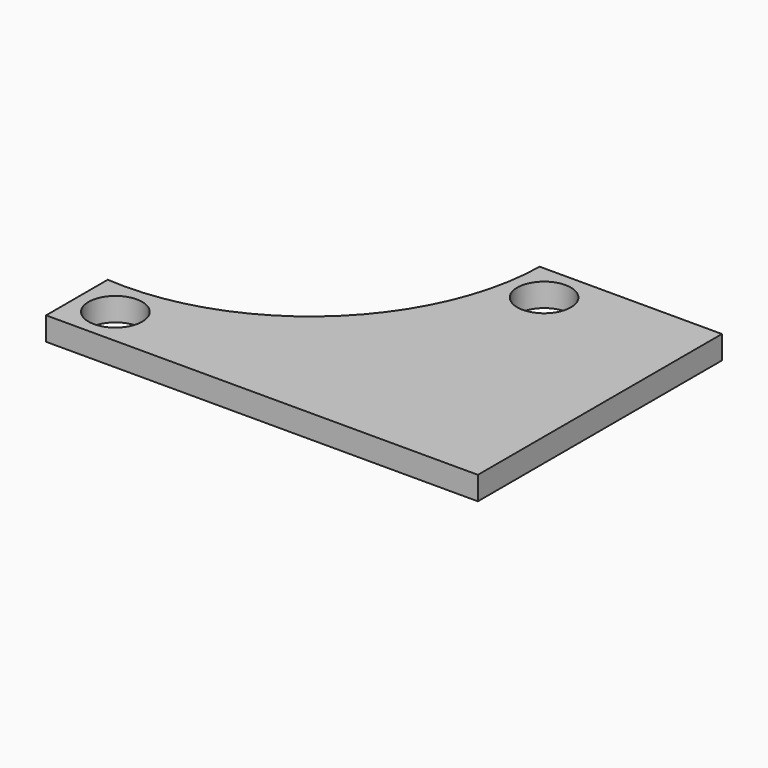
from build123d import *

# Parameters (mm, degrees)
F0_R     = 2.921
F1_DEPTH = 1.27


with BuildPart() as f1:
    # F0 (on Top) → F1 (new body, symmetric)
    with BuildSketch(Plane.XY):
        with BuildLine():
            Line((16.008551, -13.481906), (16.008551, 19.728972))
            Line((16.008551, 19.728972), (-3.832283, 19.728972))
            ThreePointArc((-3.832283, 19.728972), (-12.068809, 1.461038), (-31.006849, -5.089415))
            Line((-31.006849, -5.089415), (-31.006849, -13.481906))
            Line((-31.006849, -13.481906), (16.008551, -13.481906))
        make_face()
        with Locations((-26.815849, -9.290906)):
            Circle(F0_R, mode=Mode.SUBTRACT)
        with Locations((0, 15.537972)):
            Circle(F0_R, mode=Mode.SUBTRACT)
    extrude(amount=F1_DEPTH, both=True)


solid = f1.part
